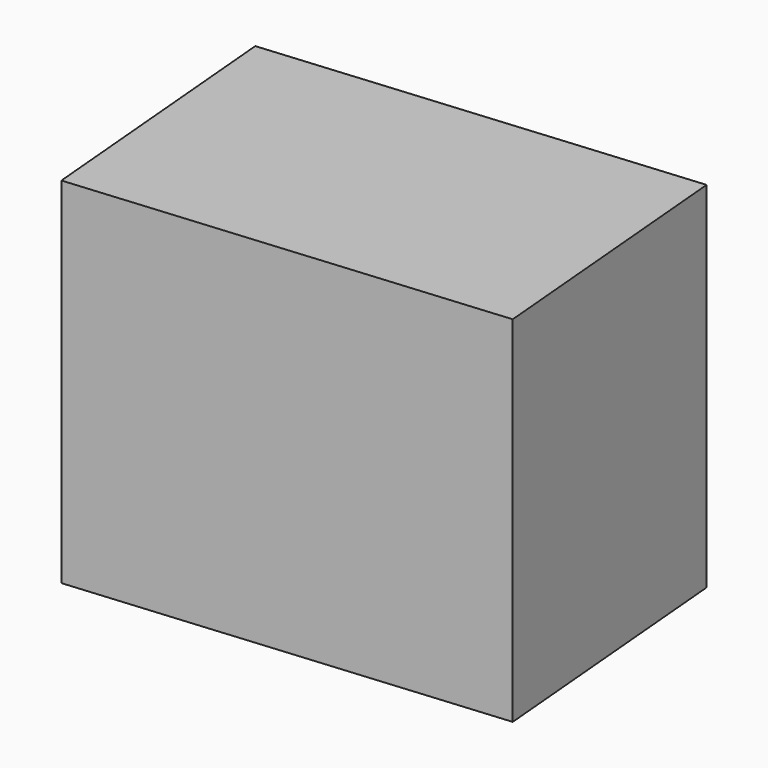
from build123d import *

# Parameters (mm, degrees)
F0_W     = 75.2491950989
F0_H     = 48.5349902883
F1_DEPTH = 62.992
F2_ANGLE = 175
F3_ANGLE = -180


with BuildPart() as f1:
    # F0 (on Top) → F1 (new body)
    with BuildSketch(Plane.XY):
        with Locations((-3.7127323449, 11.5366871469)):
            Rectangle(F0_W, F0_H)
    extrude(amount=F1_DEPTH)


with BuildPart() as f1_1:
    # F2: moved
    add(f1.part.rotate(Axis((33.9118652046, 35.804182291, 31.496), (0, 0, -1)), F2_ANGLE))


with BuildPart() as f1_2:
    # F3: moved
    add(f1_1.part.rotate(Axis((31.7968136407, 59.9793322896, 0), (0.0871557427, -0.9961946981, 0)), F3_ANGLE))


solid = f1_2.part
